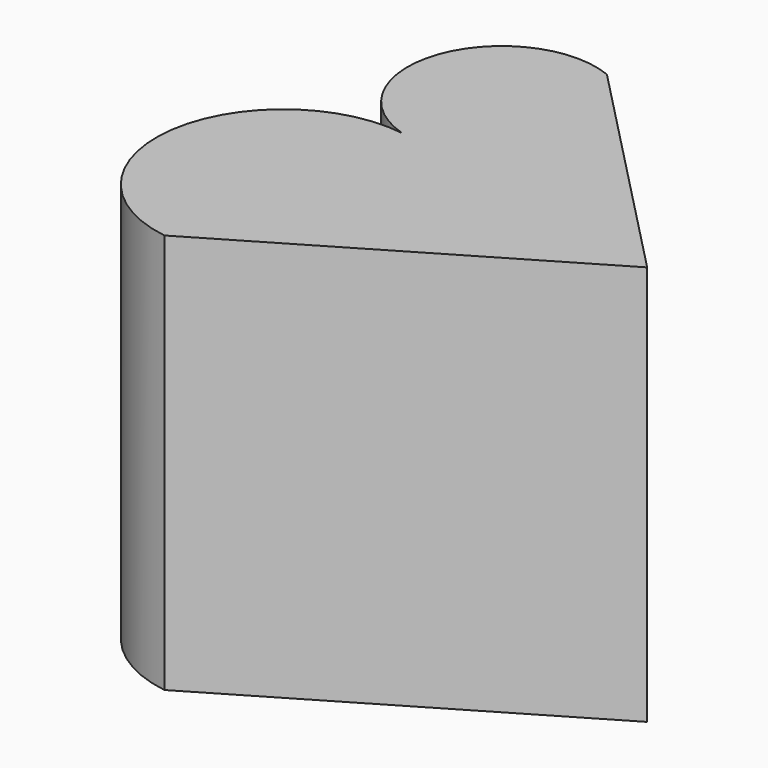
from build123d import *

# Parameters (mm, degrees)
F1_DEPTH = 127


with BuildPart() as f1:
    # F0 (on Top) → F1 (new body)
    with BuildSketch(Plane.XY):
        with BuildLine():
            ThreePointArc((-23.72455, 89.486159), (-63.109713, 71.771572), (-43.692447, 33.197392))
            ThreePointArc((-43.692447, 33.197392), (-89.374224, -0.834616), (-55.342216, -46.516392))
            Line((-55.342216, -46.516392), (48.772663, 14.845523))
            Line((48.772663, 14.845523), (-23.72455, 89.486159))
        make_face()
    extrude(amount=F1_DEPTH)


solid = f1.part
